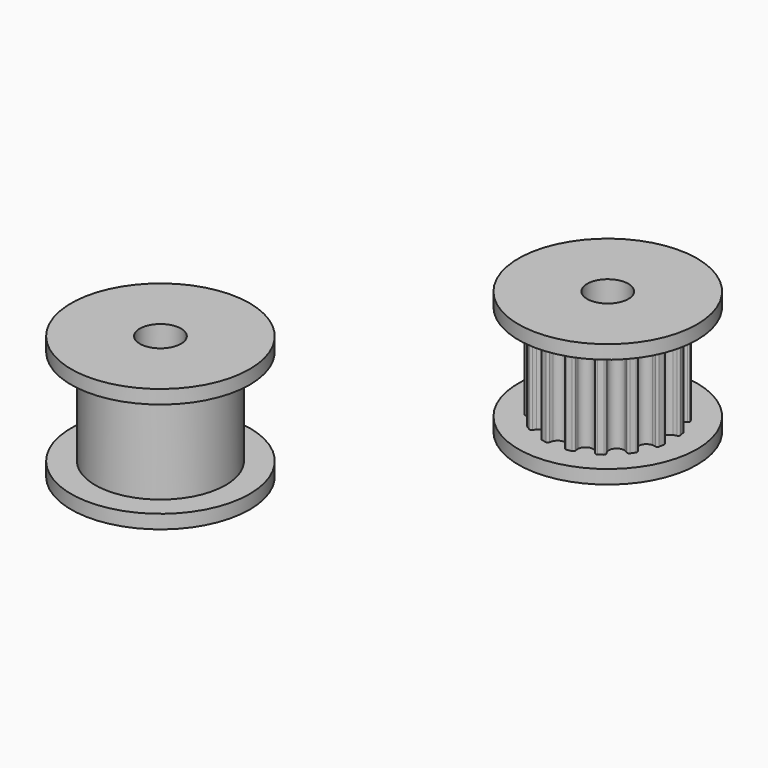
from build123d import *

# Parameters (mm, degrees)
F0_R     = 6.5
F0_R_2   = 1.5
F1_DEPTH = 1
F2_DEPTH = 7
F3_START = 7
F3_DEPTH = 1
F4_R     = 6.5
F4_R_2   = 4.75
F4_R_3   = 1.5
F5_DEPTH = 1
F6_DEPTH = 7
F7_START = 7
F7_DEPTH = 1


with BuildPart() as f1:
    # F0 (on Top) → F1 (new body)
    with BuildSketch(Plane.XY):
        Circle(F0_R)
        with BuildLine():
            ThreePointArc((4.5635991049, 0.577549314), (4.4465867309, 0.5501797907), (4.333702315, 0.5089718407))
            ThreePointArc((4.333702315, 0.5089718407), (4, 0), (4.333702315, -0.5089718407))
            ThreePointArc((4.333702315, -0.5089718407), (4.4465867309, -0.5501797907), (4.5635991049, -0.577549314))
            ThreePointArc((4.5635991049, -0.577549314), (4.6630981175, -0.637052322), (4.690462033, -0.7497105556))
            Line((4.690462033, -0.7497105556), (4.620323679, -1.1023198725))
            ThreePointArc((4.620323679, -1.1023198725), (4.551930278, -1.1959307917), (4.4372343614, -1.2128277792))
            ThreePointArc((4.4372343614, -1.2128277792), (4.3186551609, -1.1933352247), (4.1985939598, -1.1882074105))
            ThreePointArc((4.1985939598, -1.1882074105), (3.69551813, -1.5307337295), (3.8090437779, -2.128664743))
            ThreePointArc((3.8090437779, -2.128664743), (3.8975657795, -2.2099349203), (3.9951972537, -2.2799997596))
            ThreePointArc((3.9951972537, -2.2799997596), (4.0643515397, -2.3730499945), (4.0465200616, -2.4876043478))
            Line((4.0465200616, -2.4876043478), (3.8467829282, -2.7865320926))
            ThreePointArc((3.8467829282, -2.7865320926), (3.7477723171, -2.8468442834), (3.6353409101, -2.8185628373))
            ThreePointArc((3.6353409101, -2.8185628373), (3.5332474914, -2.7551757697), (3.4242877346, -2.7044928546))
            ThreePointArc((3.4242877346, -2.7044928546), (2.8284271247, -2.8284271247), (2.7044928546, -3.4242877346))
            ThreePointArc((2.7044928546, -3.4242877346), (2.7551757697, -3.5332474914), (2.8185628373, -3.6353409101))
            ThreePointArc((2.8185628373, -3.6353409101), (2.8468442834, -3.7477723171), (2.7865320926, -3.8467829282))
            Line((2.7865320926, -3.8467829282), (2.4876043478, -4.0465200616))
            ThreePointArc((2.4876043478, -4.0465200616), (2.3730499945, -4.0643515397), (2.2799997596, -3.9951972537))
            ThreePointArc((2.2799997596, -3.9951972537), (2.2099349203, -3.8975657795), (2.128664743, -3.8090437779))
            ThreePointArc((2.128664743, -3.8090437779), (1.5307337295, -3.69551813), (1.1882074105, -4.1985939598))
            ThreePointArc((1.1882074105, -4.1985939598), (1.1933352247, -4.3186551609), (1.2128277792, -4.4372343614))
            ThreePointArc((1.2128277792, -4.4372343614), (1.1959307917, -4.551930278), (1.1023198725, -4.620323679))
            Line((1.1023198725, -4.620323679), (0.7497105556, -4.690462033))
            ThreePointArc((0.7497105556, -4.690462033), (0.637052322, -4.6630981175), (0.577549314, -4.5635991049))
            ThreePointArc((0.577549314, -4.5635991049), (0.5501797907, -4.4465867309), (0.5089718407, -4.333702315))
            ThreePointArc((0.5089718407, -4.333702315), (0, -4), (-0.5089718407, -4.333702315))
            ThreePointArc((-0.5089718407, -4.333702315), (-0.5501797907, -4.4465867309), (-0.577549314, -4.5635991049))
            ThreePointArc((-0.577549314, -4.5635991049), (-0.637052322, -4.6630981175), (-0.7497105556, -4.690462033))
            Line((-0.7497105556, -4.690462033), (-1.1023198725, -4.620323679))
            ThreePointArc((-1.1023198725, -4.620323679), (-1.1959307917, -4.551930278), (-1.2128277792, -4.4372343614))
            ThreePointArc((-1.2128277792, -4.4372343614), (-1.1933352247, -4.3186551609), (-1.1882074105, -4.1985939598))
            ThreePointArc((-1.1882074105, -4.1985939598), (-1.5307337295, -3.69551813), (-2.128664743, -3.8090437779))
            ThreePointArc((-2.128664743, -3.8090437779), (-2.2099349203, -3.8975657795), (-2.2799997596, -3.9951972537))
            ThreePointArc((-2.2799997596, -3.9951972537), (-2.3730499945, -4.0643515397), (-2.4876043478, -4.0465200616))
            Line((-2.4876043478, -4.0465200616), (-2.7865320926, -3.8467829282))
            ThreePointArc((-2.7865320926, -3.8467829282), (-2.8468442834, -3.7477723171), (-2.8185628373, -3.6353409101))
            ThreePointArc((-2.8185628373, -3.6353409101), (-2.7551757697, -3.5332474914), (-2.7044928546, -3.4242877346))
            ThreePointArc((-2.7044928546, -3.4242877346), (-2.8284271247, -2.8284271247), (-3.4242877346, -2.7044928546))
            ThreePointArc((-3.4242877346, -2.7044928546), (-3.5332474914, -2.7551757697), (-3.6353409101, -2.8185628373))
            ThreePointArc((-3.6353409101, -2.8185628373), (-3.7477723171, -2.8468442834), (-3.8467829282, -2.7865320926))
            Line((-3.8467829282, -2.7865320926), (-4.0465200616, -2.4876043478))
            ThreePointArc((-4.0465200616, -2.4876043478), (-4.0643515397, -2.3730499945), (-3.9951972537, -2.2799997596))
            ThreePointArc((-3.9951972537, -2.2799997596), (-3.8975657795, -2.2099349203), (-3.8090437779, -2.128664743))
            ThreePointArc((-3.8090437779, -2.128664743), (-3.69551813, -1.5307337295), (-4.1985939598, -1.1882074105))
            ThreePointArc((-4.1985939598, -1.1882074105), (-4.3186551609, -1.1933352247), (-4.4372343614, -1.2128277792))
            ThreePointArc((-4.4372343614, -1.2128277792), (-4.551930278, -1.1959307917), (-4.620323679, -1.1023198725))
            Line((-4.620323679, -1.1023198725), (-4.690462033, -0.7497105556))
            ThreePointArc((-4.690462033, -0.7497105556), (-4.6630981175, -0.637052322), (-4.5635991049, -0.577549314))
            ThreePointArc((-4.5635991049, -0.577549314), (-4.4465867309, -0.5501797907), (-4.333702315, -0.5089718407))
            ThreePointArc((-4.333702315, -0.5089718407), (-4, 0), (-4.333702315, 0.5089718407))
            ThreePointArc((-4.333702315, 0.5089718407), (-4.4465867309, 0.5501797907), (-4.5635991049, 0.577549314))
            ThreePointArc((-4.5635991049, 0.577549314), (-4.6630981175, 0.637052322), (-4.690462033, 0.7497105556))
            Line((-4.690462033, 0.7497105556), (-4.620323679, 1.1023198725))
            ThreePointArc((-4.620323679, 1.1023198725), (-4.551930278, 1.1959307917), (-4.4372343614, 1.2128277792))
            ThreePointArc((-4.4372343614, 1.2128277792), (-4.3186551609, 1.1933352247), (-4.1985939598, 1.1882074105))
            ThreePointArc((-4.1985939598, 1.1882074105), (-3.69551813, 1.5307337295), (-3.8090437779, 2.128664743))
            ThreePointArc((-3.8090437779, 2.128664743), (-3.8975657795, 2.2099349203), (-3.9951972537, 2.2799997596))
            ThreePointArc((-3.9951972537, 2.2799997596), (-4.0643515397, 2.3730499945), (-4.0465200616, 2.4876043478))
            Line((-4.0465200616, 2.4876043478), (-3.8467829282, 2.7865320926))
            ThreePointArc((-3.8467829282, 2.7865320926), (-3.7477723171, 2.8468442834), (-3.6353409101, 2.8185628373))
            ThreePointArc((-3.6353409101, 2.8185628373), (-3.5332474914, 2.7551757697), (-3.4242877346, 2.7044928546))
            ThreePointArc((-3.4242877346, 2.7044928546), (-2.8284271247, 2.8284271247), (-2.7044928546, 3.4242877346))
            ThreePointArc((-2.7044928546, 3.4242877346), (-2.7551757697, 3.5332474914), (-2.8185628373, 3.6353409101))
            ThreePointArc((-2.8185628373, 3.6353409101), (-2.8468442834, 3.7477723171), (-2.7865320926, 3.8467829282))
            Line((-2.7865320926, 3.8467829282), (-2.4876043478, 4.0465200616))
            ThreePointArc((-2.4876043478, 4.0465200616), (-2.3730499945, 4.0643515397), (-2.2799997596, 3.9951972537))
            ThreePointArc((-2.2799997596, 3.9951972537), (-2.2099349203, 3.8975657795), (-2.128664743, 3.8090437779))
            ThreePointArc((-2.128664743, 3.8090437779), (-1.5307337295, 3.69551813), (-1.1882074105, 4.1985939598))
            ThreePointArc((-1.1882074105, 4.1985939598), (-1.1933352247, 4.3186551609), (-1.2128277792, 4.4372343614))
            ThreePointArc((-1.2128277792, 4.4372343614), (-1.1959307917, 4.551930278), (-1.1023198725, 4.620323679))
            Line((-1.1023198725, 4.620323679), (-0.7497105556, 4.690462033))
            ThreePointArc((-0.7497105556, 4.690462033), (-0.637052322, 4.6630981175), (-0.577549314, 4.5635991049))
            ThreePointArc((-0.577549314, 4.5635991049), (-0.5501797907, 4.4465867309), (-0.5089718407, 4.333702315))
            ThreePointArc((-0.5089718407, 4.333702315), (0, 4), (0.5089718407, 4.333702315))
            ThreePointArc((0.5089718407, 4.333702315), (0.5501797907, 4.4465867309), (0.577549314, 4.5635991049))
            ThreePointArc((0.577549314, 4.5635991049), (0.637052322, 4.6630981175), (0.7497105556, 4.690462033))
            Line((0.7497105556, 4.690462033), (1.1023198725, 4.620323679))
            ThreePointArc((1.1023198725, 4.620323679), (1.1959307917, 4.551930278), (1.2128277792, 4.4372343614))
            ThreePointArc((1.2128277792, 4.4372343614), (1.1933352247, 4.3186551609), (1.1882074105, 4.1985939598))
            ThreePointArc((1.1882074105, 4.1985939598), (1.5307337295, 3.69551813), (2.128664743, 3.8090437779))
            ThreePointArc((2.128664743, 3.8090437779), (2.2099349203, 3.8975657795), (2.2799997596, 3.9951972537))
            ThreePointArc((2.2799997596, 3.9951972537), (2.3730499945, 4.0643515397), (2.4876043478, 4.0465200616))
            Line((2.4876043478, 4.0465200616), (2.7865320926, 3.8467829282))
            ThreePointArc((2.7865320926, 3.8467829282), (2.8468442834, 3.7477723171), (2.8185628373, 3.6353409101))
            ThreePointArc((2.8185628373, 3.6353409101), (2.7551757697, 3.5332474914), (2.7044928546, 3.4242877346))
            ThreePointArc((2.7044928546, 3.4242877346), (2.8284271247, 2.8284271247), (3.4242877346, 2.7044928546))
            ThreePointArc((3.4242877346, 2.7044928546), (3.5332474914, 2.7551757697), (3.6353409101, 2.8185628373))
            ThreePointArc((3.6353409101, 2.8185628373), (3.7477723171, 2.8468442834), (3.8467829282, 2.7865320926))
            Line((3.8467829282, 2.7865320926), (4.0465200616, 2.4876043478))
            ThreePointArc((4.0465200616, 2.4876043478), (4.0643515397, 2.3730499945), (3.9951972537, 2.2799997596))
            ThreePointArc((3.9951972537, 2.2799997596), (3.8975657795, 2.2099349203), (3.8090437779, 2.128664743))
            ThreePointArc((3.8090437779, 2.128664743), (3.69551813, 1.5307337295), (4.1985939598, 1.1882074105))
            ThreePointArc((4.1985939598, 1.1882074105), (4.3186551609, 1.1933352247), (4.4372343614, 1.2128277792))
            ThreePointArc((4.4372343614, 1.2128277792), (4.551930278, 1.1959307917), (4.620323679, 1.1023198725))
            Line((4.620323679, 1.1023198725), (4.690462033, 0.7497105556))
            ThreePointArc((4.690462033, 0.7497105556), (4.6630981175, 0.637052322), (4.5635991049, 0.577549314))
        make_face(mode=Mode.SUBTRACT)
        with BuildLine():
            ThreePointArc((4.333702315, -0.5089718407), (4, 0), (4.333702315, 0.5089718407))
            ThreePointArc((4.333702315, 0.5089718407), (4.4465867309, 0.5501797907), (4.5635991049, 0.577549314))
            ThreePointArc((4.5635991049, 0.577549314), (4.6630981175, 0.637052322), (4.690462033, 0.7497105556))
            Line((4.690462033, 0.7497105556), (4.620323679, 1.1023198725))
            ThreePointArc((4.620323679, 1.1023198725), (4.551930278, 1.1959307917), (4.4372343614, 1.2128277792))
            ThreePointArc((4.4372343614, 1.2128277792), (4.3186551609, 1.1933352247), (4.1985939598, 1.1882074105))
            ThreePointArc((4.1985939598, 1.1882074105), (3.69551813, 1.5307337295), (3.8090437779, 2.128664743))
            ThreePointArc((3.8090437779, 2.128664743), (3.8975657795, 2.2099349203), (3.9951972537, 2.2799997596))
            ThreePointArc((3.9951972537, 2.2799997596), (4.0643515397, 2.3730499945), (4.0465200616, 2.4876043478))
            Line((4.0465200616, 2.4876043478), (3.8467829282, 2.7865320926))
            ThreePointArc((3.8467829282, 2.7865320926), (3.7477723171, 2.8468442834), (3.6353409101, 2.8185628373))
            ThreePointArc((3.6353409101, 2.8185628373), (3.5332474914, 2.7551757697), (3.4242877346, 2.7044928546))
            ThreePointArc((3.4242877346, 2.7044928546), (2.8284271247, 2.8284271247), (2.7044928546, 3.4242877346))
            ThreePointArc((2.7044928546, 3.4242877346), (2.7551757697, 3.5332474914), (2.8185628373, 3.6353409101))
            ThreePointArc((2.8185628373, 3.6353409101), (2.8468442834, 3.7477723171), (2.7865320926, 3.8467829282))
            Line((2.7865320926, 3.8467829282), (2.4876043478, 4.0465200616))
            ThreePointArc((2.4876043478, 4.0465200616), (2.3730499945, 4.0643515397), (2.2799997596, 3.9951972537))
            ThreePointArc((2.2799997596, 3.9951972537), (2.2099349203, 3.8975657795), (2.128664743, 3.8090437779))
            ThreePointArc((2.128664743, 3.8090437779), (1.5307337295, 3.69551813), (1.1882074105, 4.1985939598))
            ThreePointArc((1.1882074105, 4.1985939598), (1.1933352247, 4.3186551609), (1.2128277792, 4.4372343614))
            ThreePointArc((1.2128277792, 4.4372343614), (1.1959307917, 4.551930278), (1.1023198725, 4.620323679))
            Line((1.1023198725, 4.620323679), (0.7497105556, 4.690462033))
            ThreePointArc((0.7497105556, 4.690462033), (0.637052322, 4.6630981175), (0.577549314, 4.5635991049))
            ThreePointArc((0.577549314, 4.5635991049), (0.5501797907, 4.4465867309), (0.5089718407, 4.333702315))
            ThreePointArc((0.5089718407, 4.333702315), (0, 4), (-0.5089718407, 4.333702315))
            ThreePointArc((-0.5089718407, 4.333702315), (-0.5501797907, 4.4465867309), (-0.577549314, 4.5635991049))
            ThreePointArc((-0.577549314, 4.5635991049), (-0.637052322, 4.6630981175), (-0.7497105556, 4.690462033))
            Line((-0.7497105556, 4.690462033), (-1.1023198725, 4.620323679))
            ThreePointArc((-1.1023198725, 4.620323679), (-1.1959307917, 4.551930278), (-1.2128277792, 4.4372343614))
            ThreePointArc((-1.2128277792, 4.4372343614), (-1.1933352247, 4.3186551609), (-1.1882074105, 4.1985939598))
            ThreePointArc((-1.1882074105, 4.1985939598), (-1.5307337295, 3.69551813), (-2.128664743, 3.8090437779))
            ThreePointArc((-2.128664743, 3.8090437779), (-2.2099349203, 3.8975657795), (-2.2799997596, 3.9951972537))
            ThreePointArc((-2.2799997596, 3.9951972537), (-2.3730499945, 4.0643515397), (-2.4876043478, 4.0465200616))
            Line((-2.4876043478, 4.0465200616), (-2.7865320926, 3.8467829282))
            ThreePointArc((-2.7865320926, 3.8467829282), (-2.8468442834, 3.7477723171), (-2.8185628373, 3.6353409101))
            ThreePointArc((-2.8185628373, 3.6353409101), (-2.7551757697, 3.5332474914), (-2.7044928546, 3.4242877346))
            ThreePointArc((-2.7044928546, 3.4242877346), (-2.8284271247, 2.8284271247), (-3.4242877346, 2.7044928546))
            ThreePointArc((-3.4242877346, 2.7044928546), (-3.5332474914, 2.7551757697), (-3.6353409101, 2.8185628373))
            ThreePointArc((-3.6353409101, 2.8185628373), (-3.7477723171, 2.8468442834), (-3.8467829282, 2.7865320926))
            Line((-3.8467829282, 2.7865320926), (-4.0465200616, 2.4876043478))
            ThreePointArc((-4.0465200616, 2.4876043478), (-4.0643515397, 2.3730499945), (-3.9951972537, 2.2799997596))
            ThreePointArc((-3.9951972537, 2.2799997596), (-3.8975657795, 2.2099349203), (-3.8090437779, 2.128664743))
            ThreePointArc((-3.8090437779, 2.128664743), (-3.69551813, 1.5307337295), (-4.1985939598, 1.1882074105))
            ThreePointArc((-4.1985939598, 1.1882074105), (-4.3186551609, 1.1933352247), (-4.4372343614, 1.2128277792))
            ThreePointArc((-4.4372343614, 1.2128277792), (-4.551930278, 1.1959307917), (-4.620323679, 1.1023198725))
            Line((-4.620323679, 1.1023198725), (-4.690462033, 0.7497105556))
            ThreePointArc((-4.690462033, 0.7497105556), (-4.6630981175, 0.637052322), (-4.5635991049, 0.577549314))
            ThreePointArc((-4.5635991049, 0.577549314), (-4.4465867309, 0.5501797907), (-4.333702315, 0.5089718407))
            ThreePointArc((-4.333702315, 0.5089718407), (-4, 0), (-4.333702315, -0.5089718407))
            ThreePointArc((-4.333702315, -0.5089718407), (-4.4465867309, -0.5501797907), (-4.5635991049, -0.577549314))
            ThreePointArc((-4.5635991049, -0.577549314), (-4.6630981175, -0.637052322), (-4.690462033, -0.7497105556))
            Line((-4.690462033, -0.7497105556), (-4.620323679, -1.1023198725))
            ThreePointArc((-4.620323679, -1.1023198725), (-4.551930278, -1.1959307917), (-4.4372343614, -1.2128277792))
            ThreePointArc((-4.4372343614, -1.2128277792), (-4.3186551609, -1.1933352247), (-4.1985939598, -1.1882074105))
            ThreePointArc((-4.1985939598, -1.1882074105), (-3.69551813, -1.5307337295), (-3.8090437779, -2.128664743))
            ThreePointArc((-3.8090437779, -2.128664743), (-3.8975657795, -2.2099349203), (-3.9951972537, -2.2799997596))
            ThreePointArc((-3.9951972537, -2.2799997596), (-4.0643515397, -2.3730499945), (-4.0465200616, -2.4876043478))
            Line((-4.0465200616, -2.4876043478), (-3.8467829282, -2.7865320926))
            ThreePointArc((-3.8467829282, -2.7865320926), (-3.7477723171, -2.8468442834), (-3.6353409101, -2.8185628373))
            ThreePointArc((-3.6353409101, -2.8185628373), (-3.5332474914, -2.7551757697), (-3.4242877346, -2.7044928546))
            ThreePointArc((-3.4242877346, -2.7044928546), (-2.8284271247, -2.8284271247), (-2.7044928546, -3.4242877346))
            ThreePointArc((-2.7044928546, -3.4242877346), (-2.7551757697, -3.5332474914), (-2.8185628373, -3.6353409101))
            ThreePointArc((-2.8185628373, -3.6353409101), (-2.8468442834, -3.7477723171), (-2.7865320926, -3.8467829282))
            Line((-2.7865320926, -3.8467829282), (-2.4876043478, -4.0465200616))
            ThreePointArc((-2.4876043478, -4.0465200616), (-2.3730499945, -4.0643515397), (-2.2799997596, -3.9951972537))
            ThreePointArc((-2.2799997596, -3.9951972537), (-2.2099349203, -3.8975657795), (-2.128664743, -3.8090437779))
            ThreePointArc((-2.128664743, -3.8090437779), (-1.5307337295, -3.69551813), (-1.1882074105, -4.1985939598))
            ThreePointArc((-1.1882074105, -4.1985939598), (-1.1933352247, -4.3186551609), (-1.2128277792, -4.4372343614))
            ThreePointArc((-1.2128277792, -4.4372343614), (-1.1959307917, -4.551930278), (-1.1023198725, -4.620323679))
            Line((-1.1023198725, -4.620323679), (-0.7497105556, -4.690462033))
            ThreePointArc((-0.7497105556, -4.690462033), (-0.637052322, -4.6630981175), (-0.577549314, -4.5635991049))
            ThreePointArc((-0.577549314, -4.5635991049), (-0.5501797907, -4.4465867309), (-0.5089718407, -4.333702315))
            ThreePointArc((-0.5089718407, -4.333702315), (0, -4), (0.5089718407, -4.333702315))
            ThreePointArc((0.5089718407, -4.333702315), (0.5501797907, -4.4465867309), (0.577549314, -4.5635991049))
            ThreePointArc((0.577549314, -4.5635991049), (0.637052322, -4.6630981175), (0.7497105556, -4.690462033))
            Line((0.7497105556, -4.690462033), (1.1023198725, -4.620323679))
            ThreePointArc((1.1023198725, -4.620323679), (1.1959307917, -4.551930278), (1.2128277792, -4.4372343614))
            ThreePointArc((1.2128277792, -4.4372343614), (1.1933352247, -4.3186551609), (1.1882074105, -4.1985939598))
            ThreePointArc((1.1882074105, -4.1985939598), (1.5307337295, -3.69551813), (2.128664743, -3.8090437779))
            ThreePointArc((2.128664743, -3.8090437779), (2.2099349203, -3.8975657795), (2.2799997596, -3.9951972537))
            ThreePointArc((2.2799997596, -3.9951972537), (2.3730499945, -4.0643515397), (2.4876043478, -4.0465200616))
            Line((2.4876043478, -4.0465200616), (2.7865320926, -3.8467829282))
            ThreePointArc((2.7865320926, -3.8467829282), (2.8468442834, -3.7477723171), (2.8185628373, -3.6353409101))
            ThreePointArc((2.8185628373, -3.6353409101), (2.7551757697, -3.5332474914), (2.7044928546, -3.4242877346))
            ThreePointArc((2.7044928546, -3.4242877346), (2.8284271247, -2.8284271247), (3.4242877346, -2.7044928546))
            ThreePointArc((3.4242877346, -2.7044928546), (3.5332474914, -2.7551757697), (3.6353409101, -2.8185628373))
            ThreePointArc((3.6353409101, -2.8185628373), (3.7477723171, -2.8468442834), (3.8467829282, -2.7865320926))
            Line((3.8467829282, -2.7865320926), (4.0465200616, -2.4876043478))
            ThreePointArc((4.0465200616, -2.4876043478), (4.0643515397, -2.3730499945), (3.9951972537, -2.2799997596))
            ThreePointArc((3.9951972537, -2.2799997596), (3.8975657795, -2.2099349203), (3.8090437779, -2.128664743))
            ThreePointArc((3.8090437779, -2.128664743), (3.69551813, -1.5307337295), (4.1985939598, -1.1882074105))
            ThreePointArc((4.1985939598, -1.1882074105), (4.3186551609, -1.1933352247), (4.4372343614, -1.2128277792))
            ThreePointArc((4.4372343614, -1.2128277792), (4.551930278, -1.1959307917), (4.620323679, -1.1023198725))
            Line((4.620323679, -1.1023198725), (4.690462033, -0.7497105556))
            ThreePointArc((4.690462033, -0.7497105556), (4.6630981175, -0.637052322), (4.5635991049, -0.577549314))
            ThreePointArc((4.5635991049, -0.577549314), (4.4465867309, -0.5501797907), (4.333702315, -0.5089718407))
        make_face()
        Circle(F0_R_2, mode=Mode.SUBTRACT)
    extrude(amount=-F1_DEPTH)

    # F0 (on Top) → F2 (join)
    with BuildSketch(Plane.XY):
        with BuildLine():
            ThreePointArc((4.333702315, -0.5089718407), (4, 0), (4.333702315, 0.5089718407))
            ThreePointArc((4.333702315, 0.5089718407), (4.4465867309, 0.5501797907), (4.5635991049, 0.577549314))
            ThreePointArc((4.5635991049, 0.577549314), (4.6630981175, 0.637052322), (4.690462033, 0.7497105556))
            Line((4.690462033, 0.7497105556), (4.620323679, 1.1023198725))
            ThreePointArc((4.620323679, 1.1023198725), (4.551930278, 1.1959307917), (4.4372343614, 1.2128277792))
            ThreePointArc((4.4372343614, 1.2128277792), (4.3186551609, 1.1933352247), (4.1985939598, 1.1882074105))
            ThreePointArc((4.1985939598, 1.1882074105), (3.69551813, 1.5307337295), (3.8090437779, 2.128664743))
            ThreePointArc((3.8090437779, 2.128664743), (3.8975657795, 2.2099349203), (3.9951972537, 2.2799997596))
            ThreePointArc((3.9951972537, 2.2799997596), (4.0643515397, 2.3730499945), (4.0465200616, 2.4876043478))
            Line((4.0465200616, 2.4876043478), (3.8467829282, 2.7865320926))
            ThreePointArc((3.8467829282, 2.7865320926), (3.7477723171, 2.8468442834), (3.6353409101, 2.8185628373))
            ThreePointArc((3.6353409101, 2.8185628373), (3.5332474914, 2.7551757697), (3.4242877346, 2.7044928546))
            ThreePointArc((3.4242877346, 2.7044928546), (2.8284271247, 2.8284271247), (2.7044928546, 3.4242877346))
            ThreePointArc((2.7044928546, 3.4242877346), (2.7551757697, 3.5332474914), (2.8185628373, 3.6353409101))
            ThreePointArc((2.8185628373, 3.6353409101), (2.8468442834, 3.7477723171), (2.7865320926, 3.8467829282))
            Line((2.7865320926, 3.8467829282), (2.4876043478, 4.0465200616))
            ThreePointArc((2.4876043478, 4.0465200616), (2.3730499945, 4.0643515397), (2.2799997596, 3.9951972537))
            ThreePointArc((2.2799997596, 3.9951972537), (2.2099349203, 3.8975657795), (2.128664743, 3.8090437779))
            ThreePointArc((2.128664743, 3.8090437779), (1.5307337295, 3.69551813), (1.1882074105, 4.1985939598))
            ThreePointArc((1.1882074105, 4.1985939598), (1.1933352247, 4.3186551609), (1.2128277792, 4.4372343614))
            ThreePointArc((1.2128277792, 4.4372343614), (1.1959307917, 4.551930278), (1.1023198725, 4.620323679))
            Line((1.1023198725, 4.620323679), (0.7497105556, 4.690462033))
            ThreePointArc((0.7497105556, 4.690462033), (0.637052322, 4.6630981175), (0.577549314, 4.5635991049))
            ThreePointArc((0.577549314, 4.5635991049), (0.5501797907, 4.4465867309), (0.5089718407, 4.333702315))
            ThreePointArc((0.5089718407, 4.333702315), (0, 4), (-0.5089718407, 4.333702315))
            ThreePointArc((-0.5089718407, 4.333702315), (-0.5501797907, 4.4465867309), (-0.577549314, 4.5635991049))
            ThreePointArc((-0.577549314, 4.5635991049), (-0.637052322, 4.6630981175), (-0.7497105556, 4.690462033))
            Line((-0.7497105556, 4.690462033), (-1.1023198725, 4.620323679))
            ThreePointArc((-1.1023198725, 4.620323679), (-1.1959307917, 4.551930278), (-1.2128277792, 4.4372343614))
            ThreePointArc((-1.2128277792, 4.4372343614), (-1.1933352247, 4.3186551609), (-1.1882074105, 4.1985939598))
            ThreePointArc((-1.1882074105, 4.1985939598), (-1.5307337295, 3.69551813), (-2.128664743, 3.8090437779))
            ThreePointArc((-2.128664743, 3.8090437779), (-2.2099349203, 3.8975657795), (-2.2799997596, 3.9951972537))
            ThreePointArc((-2.2799997596, 3.9951972537), (-2.3730499945, 4.0643515397), (-2.4876043478, 4.0465200616))
            Line((-2.4876043478, 4.0465200616), (-2.7865320926, 3.8467829282))
            ThreePointArc((-2.7865320926, 3.8467829282), (-2.8468442834, 3.7477723171), (-2.8185628373, 3.6353409101))
            ThreePointArc((-2.8185628373, 3.6353409101), (-2.7551757697, 3.5332474914), (-2.7044928546, 3.4242877346))
            ThreePointArc((-2.7044928546, 3.4242877346), (-2.8284271247, 2.8284271247), (-3.4242877346, 2.7044928546))
            ThreePointArc((-3.4242877346, 2.7044928546), (-3.5332474914, 2.7551757697), (-3.6353409101, 2.8185628373))
            ThreePointArc((-3.6353409101, 2.8185628373), (-3.7477723171, 2.8468442834), (-3.8467829282, 2.7865320926))
            Line((-3.8467829282, 2.7865320926), (-4.0465200616, 2.4876043478))
            ThreePointArc((-4.0465200616, 2.4876043478), (-4.0643515397, 2.3730499945), (-3.9951972537, 2.2799997596))
            ThreePointArc((-3.9951972537, 2.2799997596), (-3.8975657795, 2.2099349203), (-3.8090437779, 2.128664743))
            ThreePointArc((-3.8090437779, 2.128664743), (-3.69551813, 1.5307337295), (-4.1985939598, 1.1882074105))
            ThreePointArc((-4.1985939598, 1.1882074105), (-4.3186551609, 1.1933352247), (-4.4372343614, 1.2128277792))
            ThreePointArc((-4.4372343614, 1.2128277792), (-4.551930278, 1.1959307917), (-4.620323679, 1.1023198725))
            Line((-4.620323679, 1.1023198725), (-4.690462033, 0.7497105556))
            ThreePointArc((-4.690462033, 0.7497105556), (-4.6630981175, 0.637052322), (-4.5635991049, 0.577549314))
            ThreePointArc((-4.5635991049, 0.577549314), (-4.4465867309, 0.5501797907), (-4.333702315, 0.5089718407))
            ThreePointArc((-4.333702315, 0.5089718407), (-4, 0), (-4.333702315, -0.5089718407))
            ThreePointArc((-4.333702315, -0.5089718407), (-4.4465867309, -0.5501797907), (-4.5635991049, -0.577549314))
            ThreePointArc((-4.5635991049, -0.577549314), (-4.6630981175, -0.637052322), (-4.690462033, -0.7497105556))
            Line((-4.690462033, -0.7497105556), (-4.620323679, -1.1023198725))
            ThreePointArc((-4.620323679, -1.1023198725), (-4.551930278, -1.1959307917), (-4.4372343614, -1.2128277792))
            ThreePointArc((-4.4372343614, -1.2128277792), (-4.3186551609, -1.1933352247), (-4.1985939598, -1.1882074105))
            ThreePointArc((-4.1985939598, -1.1882074105), (-3.69551813, -1.5307337295), (-3.8090437779, -2.128664743))
            ThreePointArc((-3.8090437779, -2.128664743), (-3.8975657795, -2.2099349203), (-3.9951972537, -2.2799997596))
            ThreePointArc((-3.9951972537, -2.2799997596), (-4.0643515397, -2.3730499945), (-4.0465200616, -2.4876043478))
            Line((-4.0465200616, -2.4876043478), (-3.8467829282, -2.7865320926))
            ThreePointArc((-3.8467829282, -2.7865320926), (-3.7477723171, -2.8468442834), (-3.6353409101, -2.8185628373))
            ThreePointArc((-3.6353409101, -2.8185628373), (-3.5332474914, -2.7551757697), (-3.4242877346, -2.7044928546))
            ThreePointArc((-3.4242877346, -2.7044928546), (-2.8284271247, -2.8284271247), (-2.7044928546, -3.4242877346))
            ThreePointArc((-2.7044928546, -3.4242877346), (-2.7551757697, -3.5332474914), (-2.8185628373, -3.6353409101))
            ThreePointArc((-2.8185628373, -3.6353409101), (-2.8468442834, -3.7477723171), (-2.7865320926, -3.8467829282))
            Line((-2.7865320926, -3.8467829282), (-2.4876043478, -4.0465200616))
            ThreePointArc((-2.4876043478, -4.0465200616), (-2.3730499945, -4.0643515397), (-2.2799997596, -3.9951972537))
            ThreePointArc((-2.2799997596, -3.9951972537), (-2.2099349203, -3.8975657795), (-2.128664743, -3.8090437779))
            ThreePointArc((-2.128664743, -3.8090437779), (-1.5307337295, -3.69551813), (-1.1882074105, -4.1985939598))
            ThreePointArc((-1.1882074105, -4.1985939598), (-1.1933352247, -4.3186551609), (-1.2128277792, -4.4372343614))
            ThreePointArc((-1.2128277792, -4.4372343614), (-1.1959307917, -4.551930278), (-1.1023198725, -4.620323679))
            Line((-1.1023198725, -4.620323679), (-0.7497105556, -4.690462033))
            ThreePointArc((-0.7497105556, -4.690462033), (-0.637052322, -4.6630981175), (-0.577549314, -4.5635991049))
            ThreePointArc((-0.577549314, -4.5635991049), (-0.5501797907, -4.4465867309), (-0.5089718407, -4.333702315))
            ThreePointArc((-0.5089718407, -4.333702315), (0, -4), (0.5089718407, -4.333702315))
            ThreePointArc((0.5089718407, -4.333702315), (0.5501797907, -4.4465867309), (0.577549314, -4.5635991049))
            ThreePointArc((0.577549314, -4.5635991049), (0.637052322, -4.6630981175), (0.7497105556, -4.690462033))
            Line((0.7497105556, -4.690462033), (1.1023198725, -4.620323679))
            ThreePointArc((1.1023198725, -4.620323679), (1.1959307917, -4.551930278), (1.2128277792, -4.4372343614))
            ThreePointArc((1.2128277792, -4.4372343614), (1.1933352247, -4.3186551609), (1.1882074105, -4.1985939598))
            ThreePointArc((1.1882074105, -4.1985939598), (1.5307337295, -3.69551813), (2.128664743, -3.8090437779))
            ThreePointArc((2.128664743, -3.8090437779), (2.2099349203, -3.8975657795), (2.2799997596, -3.9951972537))
            ThreePointArc((2.2799997596, -3.9951972537), (2.3730499945, -4.0643515397), (2.4876043478, -4.0465200616))
            Line((2.4876043478, -4.0465200616), (2.7865320926, -3.8467829282))
            ThreePointArc((2.7865320926, -3.8467829282), (2.8468442834, -3.7477723171), (2.8185628373, -3.6353409101))
            ThreePointArc((2.8185628373, -3.6353409101), (2.7551757697, -3.5332474914), (2.7044928546, -3.4242877346))
            ThreePointArc((2.7044928546, -3.4242877346), (2.8284271247, -2.8284271247), (3.4242877346, -2.7044928546))
            ThreePointArc((3.4242877346, -2.7044928546), (3.5332474914, -2.7551757697), (3.6353409101, -2.8185628373))
            ThreePointArc((3.6353409101, -2.8185628373), (3.7477723171, -2.8468442834), (3.8467829282, -2.7865320926))
            Line((3.8467829282, -2.7865320926), (4.0465200616, -2.4876043478))
            ThreePointArc((4.0465200616, -2.4876043478), (4.0643515397, -2.3730499945), (3.9951972537, -2.2799997596))
            ThreePointArc((3.9951972537, -2.2799997596), (3.8975657795, -2.2099349203), (3.8090437779, -2.128664743))
            ThreePointArc((3.8090437779, -2.128664743), (3.69551813, -1.5307337295), (4.1985939598, -1.1882074105))
            ThreePointArc((4.1985939598, -1.1882074105), (4.3186551609, -1.1933352247), (4.4372343614, -1.2128277792))
            ThreePointArc((4.4372343614, -1.2128277792), (4.551930278, -1.1959307917), (4.620323679, -1.1023198725))
            Line((4.620323679, -1.1023198725), (4.690462033, -0.7497105556))
            ThreePointArc((4.690462033, -0.7497105556), (4.6630981175, -0.637052322), (4.5635991049, -0.577549314))
            ThreePointArc((4.5635991049, -0.577549314), (4.4465867309, -0.5501797907), (4.333702315, -0.5089718407))
        make_face()
        Circle(F0_R_2, mode=Mode.SUBTRACT)
    extrude(amount=F2_DEPTH)

    # F0 (on Top) → F3 (join)
    with BuildSketch(Plane.XY.offset(F3_START)):
        Circle(F0_R)
        with BuildLine():
            ThreePointArc((4.5635991049, 0.577549314), (4.4465867309, 0.5501797907), (4.333702315, 0.5089718407))
            ThreePointArc((4.333702315, 0.5089718407), (4, 0), (4.333702315, -0.5089718407))
            ThreePointArc((4.333702315, -0.5089718407), (4.4465867309, -0.5501797907), (4.5635991049, -0.577549314))
            ThreePointArc((4.5635991049, -0.577549314), (4.6630981175, -0.637052322), (4.690462033, -0.7497105556))
            Line((4.690462033, -0.7497105556), (4.620323679, -1.1023198725))
            ThreePointArc((4.620323679, -1.1023198725), (4.551930278, -1.1959307917), (4.4372343614, -1.2128277792))
            ThreePointArc((4.4372343614, -1.2128277792), (4.3186551609, -1.1933352247), (4.1985939598, -1.1882074105))
            ThreePointArc((4.1985939598, -1.1882074105), (3.69551813, -1.5307337295), (3.8090437779, -2.128664743))
            ThreePointArc((3.8090437779, -2.128664743), (3.8975657795, -2.2099349203), (3.9951972537, -2.2799997596))
            ThreePointArc((3.9951972537, -2.2799997596), (4.0643515397, -2.3730499945), (4.0465200616, -2.4876043478))
            Line((4.0465200616, -2.4876043478), (3.8467829282, -2.7865320926))
            ThreePointArc((3.8467829282, -2.7865320926), (3.7477723171, -2.8468442834), (3.6353409101, -2.8185628373))
            ThreePointArc((3.6353409101, -2.8185628373), (3.5332474914, -2.7551757697), (3.4242877346, -2.7044928546))
            ThreePointArc((3.4242877346, -2.7044928546), (2.8284271247, -2.8284271247), (2.7044928546, -3.4242877346))
            ThreePointArc((2.7044928546, -3.4242877346), (2.7551757697, -3.5332474914), (2.8185628373, -3.6353409101))
            ThreePointArc((2.8185628373, -3.6353409101), (2.8468442834, -3.7477723171), (2.7865320926, -3.8467829282))
            Line((2.7865320926, -3.8467829282), (2.4876043478, -4.0465200616))
            ThreePointArc((2.4876043478, -4.0465200616), (2.3730499945, -4.0643515397), (2.2799997596, -3.9951972537))
            ThreePointArc((2.2799997596, -3.9951972537), (2.2099349203, -3.8975657795), (2.128664743, -3.8090437779))
            ThreePointArc((2.128664743, -3.8090437779), (1.5307337295, -3.69551813), (1.1882074105, -4.1985939598))
            ThreePointArc((1.1882074105, -4.1985939598), (1.1933352247, -4.3186551609), (1.2128277792, -4.4372343614))
            ThreePointArc((1.2128277792, -4.4372343614), (1.1959307917, -4.551930278), (1.1023198725, -4.620323679))
            Line((1.1023198725, -4.620323679), (0.7497105556, -4.690462033))
            ThreePointArc((0.7497105556, -4.690462033), (0.637052322, -4.6630981175), (0.577549314, -4.5635991049))
            ThreePointArc((0.577549314, -4.5635991049), (0.5501797907, -4.4465867309), (0.5089718407, -4.333702315))
            ThreePointArc((0.5089718407, -4.333702315), (0, -4), (-0.5089718407, -4.333702315))
            ThreePointArc((-0.5089718407, -4.333702315), (-0.5501797907, -4.4465867309), (-0.577549314, -4.5635991049))
            ThreePointArc((-0.577549314, -4.5635991049), (-0.637052322, -4.6630981175), (-0.7497105556, -4.690462033))
            Line((-0.7497105556, -4.690462033), (-1.1023198725, -4.620323679))
            ThreePointArc((-1.1023198725, -4.620323679), (-1.1959307917, -4.551930278), (-1.2128277792, -4.4372343614))
            ThreePointArc((-1.2128277792, -4.4372343614), (-1.1933352247, -4.3186551609), (-1.1882074105, -4.1985939598))
            ThreePointArc((-1.1882074105, -4.1985939598), (-1.5307337295, -3.69551813), (-2.128664743, -3.8090437779))
            ThreePointArc((-2.128664743, -3.8090437779), (-2.2099349203, -3.8975657795), (-2.2799997596, -3.9951972537))
            ThreePointArc((-2.2799997596, -3.9951972537), (-2.3730499945, -4.0643515397), (-2.4876043478, -4.0465200616))
            Line((-2.4876043478, -4.0465200616), (-2.7865320926, -3.8467829282))
            ThreePointArc((-2.7865320926, -3.8467829282), (-2.8468442834, -3.7477723171), (-2.8185628373, -3.6353409101))
            ThreePointArc((-2.8185628373, -3.6353409101), (-2.7551757697, -3.5332474914), (-2.7044928546, -3.4242877346))
            ThreePointArc((-2.7044928546, -3.4242877346), (-2.8284271247, -2.8284271247), (-3.4242877346, -2.7044928546))
            ThreePointArc((-3.4242877346, -2.7044928546), (-3.5332474914, -2.7551757697), (-3.6353409101, -2.8185628373))
            ThreePointArc((-3.6353409101, -2.8185628373), (-3.7477723171, -2.8468442834), (-3.8467829282, -2.7865320926))
            Line((-3.8467829282, -2.7865320926), (-4.0465200616, -2.4876043478))
            ThreePointArc((-4.0465200616, -2.4876043478), (-4.0643515397, -2.3730499945), (-3.9951972537, -2.2799997596))
            ThreePointArc((-3.9951972537, -2.2799997596), (-3.8975657795, -2.2099349203), (-3.8090437779, -2.128664743))
            ThreePointArc((-3.8090437779, -2.128664743), (-3.69551813, -1.5307337295), (-4.1985939598, -1.1882074105))
            ThreePointArc((-4.1985939598, -1.1882074105), (-4.3186551609, -1.1933352247), (-4.4372343614, -1.2128277792))
            ThreePointArc((-4.4372343614, -1.2128277792), (-4.551930278, -1.1959307917), (-4.620323679, -1.1023198725))
            Line((-4.620323679, -1.1023198725), (-4.690462033, -0.7497105556))
            ThreePointArc((-4.690462033, -0.7497105556), (-4.6630981175, -0.637052322), (-4.5635991049, -0.577549314))
            ThreePointArc((-4.5635991049, -0.577549314), (-4.4465867309, -0.5501797907), (-4.333702315, -0.5089718407))
            ThreePointArc((-4.333702315, -0.5089718407), (-4, 0), (-4.333702315, 0.5089718407))
            ThreePointArc((-4.333702315, 0.5089718407), (-4.4465867309, 0.5501797907), (-4.5635991049, 0.577549314))
            ThreePointArc((-4.5635991049, 0.577549314), (-4.6630981175, 0.637052322), (-4.690462033, 0.7497105556))
            Line((-4.690462033, 0.7497105556), (-4.620323679, 1.1023198725))
            ThreePointArc((-4.620323679, 1.1023198725), (-4.551930278, 1.1959307917), (-4.4372343614, 1.2128277792))
            ThreePointArc((-4.4372343614, 1.2128277792), (-4.3186551609, 1.1933352247), (-4.1985939598, 1.1882074105))
            ThreePointArc((-4.1985939598, 1.1882074105), (-3.69551813, 1.5307337295), (-3.8090437779, 2.128664743))
            ThreePointArc((-3.8090437779, 2.128664743), (-3.8975657795, 2.2099349203), (-3.9951972537, 2.2799997596))
            ThreePointArc((-3.9951972537, 2.2799997596), (-4.0643515397, 2.3730499945), (-4.0465200616, 2.4876043478))
            Line((-4.0465200616, 2.4876043478), (-3.8467829282, 2.7865320926))
            ThreePointArc((-3.8467829282, 2.7865320926), (-3.7477723171, 2.8468442834), (-3.6353409101, 2.8185628373))
            ThreePointArc((-3.6353409101, 2.8185628373), (-3.5332474914, 2.7551757697), (-3.4242877346, 2.7044928546))
            ThreePointArc((-3.4242877346, 2.7044928546), (-2.8284271247, 2.8284271247), (-2.7044928546, 3.4242877346))
            ThreePointArc((-2.7044928546, 3.4242877346), (-2.7551757697, 3.5332474914), (-2.8185628373, 3.6353409101))
            ThreePointArc((-2.8185628373, 3.6353409101), (-2.8468442834, 3.7477723171), (-2.7865320926, 3.8467829282))
            Line((-2.7865320926, 3.8467829282), (-2.4876043478, 4.0465200616))
            ThreePointArc((-2.4876043478, 4.0465200616), (-2.3730499945, 4.0643515397), (-2.2799997596, 3.9951972537))
            ThreePointArc((-2.2799997596, 3.9951972537), (-2.2099349203, 3.8975657795), (-2.128664743, 3.8090437779))
            ThreePointArc((-2.128664743, 3.8090437779), (-1.5307337295, 3.69551813), (-1.1882074105, 4.1985939598))
            ThreePointArc((-1.1882074105, 4.1985939598), (-1.1933352247, 4.3186551609), (-1.2128277792, 4.4372343614))
            ThreePointArc((-1.2128277792, 4.4372343614), (-1.1959307917, 4.551930278), (-1.1023198725, 4.620323679))
            Line((-1.1023198725, 4.620323679), (-0.7497105556, 4.690462033))
            ThreePointArc((-0.7497105556, 4.690462033), (-0.637052322, 4.6630981175), (-0.577549314, 4.5635991049))
            ThreePointArc((-0.577549314, 4.5635991049), (-0.5501797907, 4.4465867309), (-0.5089718407, 4.333702315))
            ThreePointArc((-0.5089718407, 4.333702315), (0, 4), (0.5089718407, 4.333702315))
            ThreePointArc((0.5089718407, 4.333702315), (0.5501797907, 4.4465867309), (0.577549314, 4.5635991049))
            ThreePointArc((0.577549314, 4.5635991049), (0.637052322, 4.6630981175), (0.7497105556, 4.690462033))
            Line((0.7497105556, 4.690462033), (1.1023198725, 4.620323679))
            ThreePointArc((1.1023198725, 4.620323679), (1.1959307917, 4.551930278), (1.2128277792, 4.4372343614))
            ThreePointArc((1.2128277792, 4.4372343614), (1.1933352247, 4.3186551609), (1.1882074105, 4.1985939598))
            ThreePointArc((1.1882074105, 4.1985939598), (1.5307337295, 3.69551813), (2.128664743, 3.8090437779))
            ThreePointArc((2.128664743, 3.8090437779), (2.2099349203, 3.8975657795), (2.2799997596, 3.9951972537))
            ThreePointArc((2.2799997596, 3.9951972537), (2.3730499945, 4.0643515397), (2.4876043478, 4.0465200616))
            Line((2.4876043478, 4.0465200616), (2.7865320926, 3.8467829282))
            ThreePointArc((2.7865320926, 3.8467829282), (2.8468442834, 3.7477723171), (2.8185628373, 3.6353409101))
            ThreePointArc((2.8185628373, 3.6353409101), (2.7551757697, 3.5332474914), (2.7044928546, 3.4242877346))
            ThreePointArc((2.7044928546, 3.4242877346), (2.8284271247, 2.8284271247), (3.4242877346, 2.7044928546))
            ThreePointArc((3.4242877346, 2.7044928546), (3.5332474914, 2.7551757697), (3.6353409101, 2.8185628373))
            ThreePointArc((3.6353409101, 2.8185628373), (3.7477723171, 2.8468442834), (3.8467829282, 2.7865320926))
            Line((3.8467829282, 2.7865320926), (4.0465200616, 2.4876043478))
            ThreePointArc((4.0465200616, 2.4876043478), (4.0643515397, 2.3730499945), (3.9951972537, 2.2799997596))
            ThreePointArc((3.9951972537, 2.2799997596), (3.8975657795, 2.2099349203), (3.8090437779, 2.128664743))
            ThreePointArc((3.8090437779, 2.128664743), (3.69551813, 1.5307337295), (4.1985939598, 1.1882074105))
            ThreePointArc((4.1985939598, 1.1882074105), (4.3186551609, 1.1933352247), (4.4372343614, 1.2128277792))
            ThreePointArc((4.4372343614, 1.2128277792), (4.551930278, 1.1959307917), (4.620323679, 1.1023198725))
            Line((4.620323679, 1.1023198725), (4.690462033, 0.7497105556))
            ThreePointArc((4.690462033, 0.7497105556), (4.6630981175, 0.637052322), (4.5635991049, 0.577549314))
        make_face(mode=Mode.SUBTRACT)
        with BuildLine():
            ThreePointArc((4.333702315, -0.5089718407), (4, 0), (4.333702315, 0.5089718407))
            ThreePointArc((4.333702315, 0.5089718407), (4.4465867309, 0.5501797907), (4.5635991049, 0.577549314))
            ThreePointArc((4.5635991049, 0.577549314), (4.6630981175, 0.637052322), (4.690462033, 0.7497105556))
            Line((4.690462033, 0.7497105556), (4.620323679, 1.1023198725))
            ThreePointArc((4.620323679, 1.1023198725), (4.551930278, 1.1959307917), (4.4372343614, 1.2128277792))
            ThreePointArc((4.4372343614, 1.2128277792), (4.3186551609, 1.1933352247), (4.1985939598, 1.1882074105))
            ThreePointArc((4.1985939598, 1.1882074105), (3.69551813, 1.5307337295), (3.8090437779, 2.128664743))
            ThreePointArc((3.8090437779, 2.128664743), (3.8975657795, 2.2099349203), (3.9951972537, 2.2799997596))
            ThreePointArc((3.9951972537, 2.2799997596), (4.0643515397, 2.3730499945), (4.0465200616, 2.4876043478))
            Line((4.0465200616, 2.4876043478), (3.8467829282, 2.7865320926))
            ThreePointArc((3.8467829282, 2.7865320926), (3.7477723171, 2.8468442834), (3.6353409101, 2.8185628373))
            ThreePointArc((3.6353409101, 2.8185628373), (3.5332474914, 2.7551757697), (3.4242877346, 2.7044928546))
            ThreePointArc((3.4242877346, 2.7044928546), (2.8284271247, 2.8284271247), (2.7044928546, 3.4242877346))
            ThreePointArc((2.7044928546, 3.4242877346), (2.7551757697, 3.5332474914), (2.8185628373, 3.6353409101))
            ThreePointArc((2.8185628373, 3.6353409101), (2.8468442834, 3.7477723171), (2.7865320926, 3.8467829282))
            Line((2.7865320926, 3.8467829282), (2.4876043478, 4.0465200616))
            ThreePointArc((2.4876043478, 4.0465200616), (2.3730499945, 4.0643515397), (2.2799997596, 3.9951972537))
            ThreePointArc((2.2799997596, 3.9951972537), (2.2099349203, 3.8975657795), (2.128664743, 3.8090437779))
            ThreePointArc((2.128664743, 3.8090437779), (1.5307337295, 3.69551813), (1.1882074105, 4.1985939598))
            ThreePointArc((1.1882074105, 4.1985939598), (1.1933352247, 4.3186551609), (1.2128277792, 4.4372343614))
            ThreePointArc((1.2128277792, 4.4372343614), (1.1959307917, 4.551930278), (1.1023198725, 4.620323679))
            Line((1.1023198725, 4.620323679), (0.7497105556, 4.690462033))
            ThreePointArc((0.7497105556, 4.690462033), (0.637052322, 4.6630981175), (0.577549314, 4.5635991049))
            ThreePointArc((0.577549314, 4.5635991049), (0.5501797907, 4.4465867309), (0.5089718407, 4.333702315))
            ThreePointArc((0.5089718407, 4.333702315), (0, 4), (-0.5089718407, 4.333702315))
            ThreePointArc((-0.5089718407, 4.333702315), (-0.5501797907, 4.4465867309), (-0.577549314, 4.5635991049))
            ThreePointArc((-0.577549314, 4.5635991049), (-0.637052322, 4.6630981175), (-0.7497105556, 4.690462033))
            Line((-0.7497105556, 4.690462033), (-1.1023198725, 4.620323679))
            ThreePointArc((-1.1023198725, 4.620323679), (-1.1959307917, 4.551930278), (-1.2128277792, 4.4372343614))
            ThreePointArc((-1.2128277792, 4.4372343614), (-1.1933352247, 4.3186551609), (-1.1882074105, 4.1985939598))
            ThreePointArc((-1.1882074105, 4.1985939598), (-1.5307337295, 3.69551813), (-2.128664743, 3.8090437779))
            ThreePointArc((-2.128664743, 3.8090437779), (-2.2099349203, 3.8975657795), (-2.2799997596, 3.9951972537))
            ThreePointArc((-2.2799997596, 3.9951972537), (-2.3730499945, 4.0643515397), (-2.4876043478, 4.0465200616))
            Line((-2.4876043478, 4.0465200616), (-2.7865320926, 3.8467829282))
            ThreePointArc((-2.7865320926, 3.8467829282), (-2.8468442834, 3.7477723171), (-2.8185628373, 3.6353409101))
            ThreePointArc((-2.8185628373, 3.6353409101), (-2.7551757697, 3.5332474914), (-2.7044928546, 3.4242877346))
            ThreePointArc((-2.7044928546, 3.4242877346), (-2.8284271247, 2.8284271247), (-3.4242877346, 2.7044928546))
            ThreePointArc((-3.4242877346, 2.7044928546), (-3.5332474914, 2.7551757697), (-3.6353409101, 2.8185628373))
            ThreePointArc((-3.6353409101, 2.8185628373), (-3.7477723171, 2.8468442834), (-3.8467829282, 2.7865320926))
            Line((-3.8467829282, 2.7865320926), (-4.0465200616, 2.4876043478))
            ThreePointArc((-4.0465200616, 2.4876043478), (-4.0643515397, 2.3730499945), (-3.9951972537, 2.2799997596))
            ThreePointArc((-3.9951972537, 2.2799997596), (-3.8975657795, 2.2099349203), (-3.8090437779, 2.128664743))
            ThreePointArc((-3.8090437779, 2.128664743), (-3.69551813, 1.5307337295), (-4.1985939598, 1.1882074105))
            ThreePointArc((-4.1985939598, 1.1882074105), (-4.3186551609, 1.1933352247), (-4.4372343614, 1.2128277792))
            ThreePointArc((-4.4372343614, 1.2128277792), (-4.551930278, 1.1959307917), (-4.620323679, 1.1023198725))
            Line((-4.620323679, 1.1023198725), (-4.690462033, 0.7497105556))
            ThreePointArc((-4.690462033, 0.7497105556), (-4.6630981175, 0.637052322), (-4.5635991049, 0.577549314))
            ThreePointArc((-4.5635991049, 0.577549314), (-4.4465867309, 0.5501797907), (-4.333702315, 0.5089718407))
            ThreePointArc((-4.333702315, 0.5089718407), (-4, 0), (-4.333702315, -0.5089718407))
            ThreePointArc((-4.333702315, -0.5089718407), (-4.4465867309, -0.5501797907), (-4.5635991049, -0.577549314))
            ThreePointArc((-4.5635991049, -0.577549314), (-4.6630981175, -0.637052322), (-4.690462033, -0.7497105556))
            Line((-4.690462033, -0.7497105556), (-4.620323679, -1.1023198725))
            ThreePointArc((-4.620323679, -1.1023198725), (-4.551930278, -1.1959307917), (-4.4372343614, -1.2128277792))
            ThreePointArc((-4.4372343614, -1.2128277792), (-4.3186551609, -1.1933352247), (-4.1985939598, -1.1882074105))
            ThreePointArc((-4.1985939598, -1.1882074105), (-3.69551813, -1.5307337295), (-3.8090437779, -2.128664743))
            ThreePointArc((-3.8090437779, -2.128664743), (-3.8975657795, -2.2099349203), (-3.9951972537, -2.2799997596))
            ThreePointArc((-3.9951972537, -2.2799997596), (-4.0643515397, -2.3730499945), (-4.0465200616, -2.4876043478))
            Line((-4.0465200616, -2.4876043478), (-3.8467829282, -2.7865320926))
            ThreePointArc((-3.8467829282, -2.7865320926), (-3.7477723171, -2.8468442834), (-3.6353409101, -2.8185628373))
            ThreePointArc((-3.6353409101, -2.8185628373), (-3.5332474914, -2.7551757697), (-3.4242877346, -2.7044928546))
            ThreePointArc((-3.4242877346, -2.7044928546), (-2.8284271247, -2.8284271247), (-2.7044928546, -3.4242877346))
            ThreePointArc((-2.7044928546, -3.4242877346), (-2.7551757697, -3.5332474914), (-2.8185628373, -3.6353409101))
            ThreePointArc((-2.8185628373, -3.6353409101), (-2.8468442834, -3.7477723171), (-2.7865320926, -3.8467829282))
            Line((-2.7865320926, -3.8467829282), (-2.4876043478, -4.0465200616))
            ThreePointArc((-2.4876043478, -4.0465200616), (-2.3730499945, -4.0643515397), (-2.2799997596, -3.9951972537))
            ThreePointArc((-2.2799997596, -3.9951972537), (-2.2099349203, -3.8975657795), (-2.128664743, -3.8090437779))
            ThreePointArc((-2.128664743, -3.8090437779), (-1.5307337295, -3.69551813), (-1.1882074105, -4.1985939598))
            ThreePointArc((-1.1882074105, -4.1985939598), (-1.1933352247, -4.3186551609), (-1.2128277792, -4.4372343614))
            ThreePointArc((-1.2128277792, -4.4372343614), (-1.1959307917, -4.551930278), (-1.1023198725, -4.620323679))
            Line((-1.1023198725, -4.620323679), (-0.7497105556, -4.690462033))
            ThreePointArc((-0.7497105556, -4.690462033), (-0.637052322, -4.6630981175), (-0.577549314, -4.5635991049))
            ThreePointArc((-0.577549314, -4.5635991049), (-0.5501797907, -4.4465867309), (-0.5089718407, -4.333702315))
            ThreePointArc((-0.5089718407, -4.333702315), (0, -4), (0.5089718407, -4.333702315))
            ThreePointArc((0.5089718407, -4.333702315), (0.5501797907, -4.4465867309), (0.577549314, -4.5635991049))
            ThreePointArc((0.577549314, -4.5635991049), (0.637052322, -4.6630981175), (0.7497105556, -4.690462033))
            Line((0.7497105556, -4.690462033), (1.1023198725, -4.620323679))
            ThreePointArc((1.1023198725, -4.620323679), (1.1959307917, -4.551930278), (1.2128277792, -4.4372343614))
            ThreePointArc((1.2128277792, -4.4372343614), (1.1933352247, -4.3186551609), (1.1882074105, -4.1985939598))
            ThreePointArc((1.1882074105, -4.1985939598), (1.5307337295, -3.69551813), (2.128664743, -3.8090437779))
            ThreePointArc((2.128664743, -3.8090437779), (2.2099349203, -3.8975657795), (2.2799997596, -3.9951972537))
            ThreePointArc((2.2799997596, -3.9951972537), (2.3730499945, -4.0643515397), (2.4876043478, -4.0465200616))
            Line((2.4876043478, -4.0465200616), (2.7865320926, -3.8467829282))
            ThreePointArc((2.7865320926, -3.8467829282), (2.8468442834, -3.7477723171), (2.8185628373, -3.6353409101))
            ThreePointArc((2.8185628373, -3.6353409101), (2.7551757697, -3.5332474914), (2.7044928546, -3.4242877346))
            ThreePointArc((2.7044928546, -3.4242877346), (2.8284271247, -2.8284271247), (3.4242877346, -2.7044928546))
            ThreePointArc((3.4242877346, -2.7044928546), (3.5332474914, -2.7551757697), (3.6353409101, -2.8185628373))
            ThreePointArc((3.6353409101, -2.8185628373), (3.7477723171, -2.8468442834), (3.8467829282, -2.7865320926))
            Line((3.8467829282, -2.7865320926), (4.0465200616, -2.4876043478))
            ThreePointArc((4.0465200616, -2.4876043478), (4.0643515397, -2.3730499945), (3.9951972537, -2.2799997596))
            ThreePointArc((3.9951972537, -2.2799997596), (3.8975657795, -2.2099349203), (3.8090437779, -2.128664743))
            ThreePointArc((3.8090437779, -2.128664743), (3.69551813, -1.5307337295), (4.1985939598, -1.1882074105))
            ThreePointArc((4.1985939598, -1.1882074105), (4.3186551609, -1.1933352247), (4.4372343614, -1.2128277792))
            ThreePointArc((4.4372343614, -1.2128277792), (4.551930278, -1.1959307917), (4.620323679, -1.1023198725))
            Line((4.620323679, -1.1023198725), (4.690462033, -0.7497105556))
            ThreePointArc((4.690462033, -0.7497105556), (4.6630981175, -0.637052322), (4.5635991049, -0.577549314))
            ThreePointArc((4.5635991049, -0.577549314), (4.4465867309, -0.5501797907), (4.333702315, -0.5089718407))
        make_face()
        Circle(F0_R_2, mode=Mode.SUBTRACT)
    extrude(amount=F3_DEPTH)


with BuildPart() as f5:
    # F4 (on Top) → F5 (new body)
    with BuildSketch(Plane.XY):
        with Locations((-16.4109189063, -20.1914533973)):
            Circle(F4_R)
        with Locations((-16.4109189063, -20.1914533973)):
            Circle(F4_R_2, mode=Mode.SUBTRACT)
        with Locations((-16.4109189063, -20.1914533973)):
            Circle(F4_R_2)
        with Locations((-16.4109189063, -20.1914533973)):
            Circle(F4_R_3, mode=Mode.SUBTRACT)
    extrude(amount=-F5_DEPTH)

    # F4 (on Top) → F6 (join)
    with BuildSketch(Plane.XY):
        with Locations((-16.4109189063, -20.1914533973)):
            Circle(F4_R_2)
        with Locations((-16.4109189063, -20.1914533973)):
            Circle(F4_R_3, mode=Mode.SUBTRACT)
    extrude(amount=F6_DEPTH)

    # F4 (on Top) → F7 (join)
    with BuildSketch(Plane.XY.offset(F7_START)):
        with Locations((-16.4109189063, -20.1914533973)):
            Circle(F4_R)
        with Locations((-16.4109189063, -20.1914533973)):
            Circle(F4_R_2, mode=Mode.SUBTRACT)
        with Locations((-16.4109189063, -20.1914533973)):
            Circle(F4_R_2)
        with Locations((-16.4109189063, -20.1914533973)):
            Circle(F4_R_3, mode=Mode.SUBTRACT)
    extrude(amount=F7_DEPTH)


solid = Compound([f1.part, f5.part])
